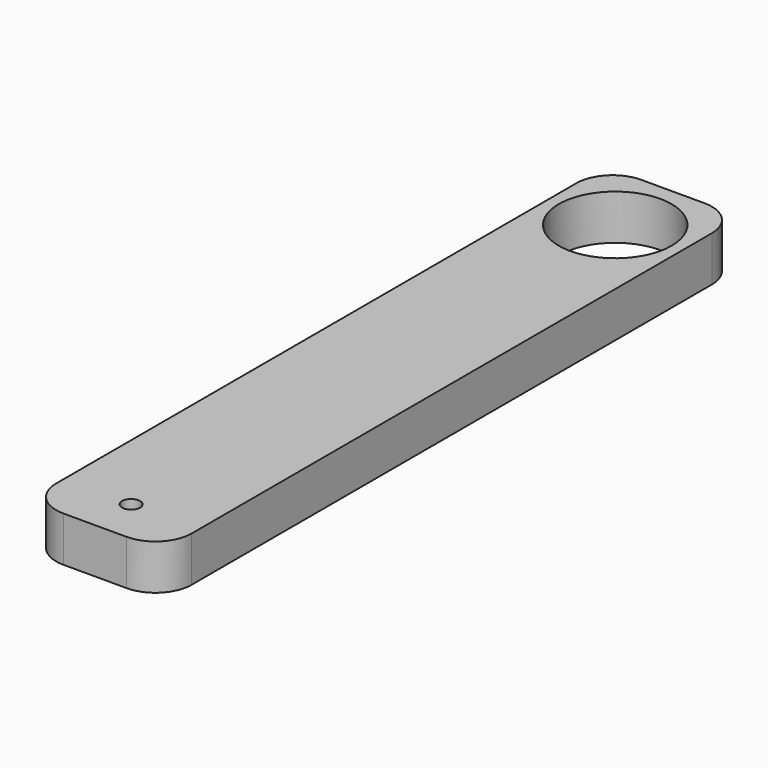
from build123d import *

# Parameters (mm, degrees)
F0_W     = 19.05
F0_H     = 101.6
F1_DEPTH = 6.35
F2_R     = 7.9375
F3_DEPTH = 25.4
F4_R     = 5.08


with BuildPart() as f1:
    # F0 (on Top) → F1 (new body)
    with BuildSketch(Plane.XY):
        with Locations((3.175, -6.782324)):
            Rectangle(F0_W, F0_H)
    extrude(amount=F1_DEPTH)

    # F2 (on face) → F3 (cut)
    with BuildSketch(Plane.XY.offset(6.35)):
        with Locations((3.175, 33.857676)):
            Circle(F2_R)
        with BuildLine():
            ThreePointArc((4.445, -51.232324), (2.276975, -50.334298), (3.175, -52.502324))
            ThreePointArc((3.175, -52.502324), (4.073026, -52.13035), (4.445, -51.232324))
        make_face()
    extrude(amount=-F3_DEPTH, mode=Mode.SUBTRACT)

    # F4
    f4_edges = [f1.edges().sort_by_distance(p)[0] for p in [
        (-6.35, 44.017676, 3.175),
        (-6.35, -57.582324, 3.175),
        (12.7, -57.582324, 3.175),
        (12.7, 44.017676, 3.175),
    ]]
    fillet(f4_edges, radius=F4_R)


solid = f1.part
